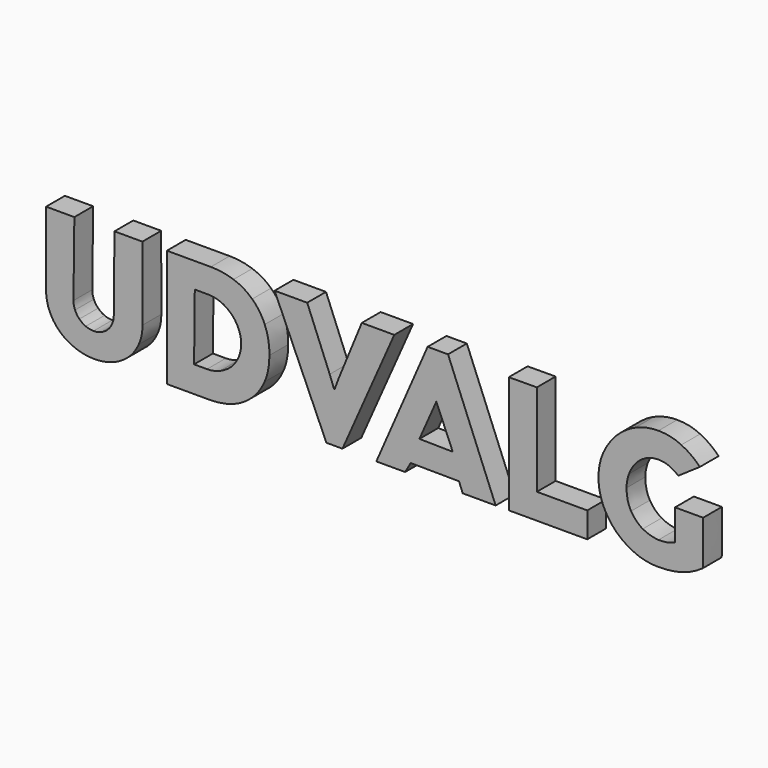
from build123d import *

# Parameters (mm, degrees)
F1_DEPTH = 50


with BuildPart() as f1:
    # F0 (on Front) → F1 (new body)
    with BuildSketch(Plane.XZ):
        with BuildLine():
            add(Edge.make_bspline(
                [(-493.529985, -31.166109), (-493.530207, -45.265155), (-496.251064, -58.251012), (-501.692537, -70.12374)],
                knots=[0, 0, 0, 0, 1, 1, 1, 1], degree=3))
            Line((-493.529985, -31.166109), (-493.901011, 125.035438))
            Line((-493.901011, 125.035438), (-553.265019, 125.035438))
            Line((-553.265019, 125.035438), (-554.749118, -33.021235))
            add(Edge.make_bspline(
                [(-558.088343, -49.717363), (-555.862361, -44.523105), (-554.749285, -38.957728), (-554.749118, -33.021235)],
                knots=[0, 0, 0, 0, 1, 1, 1, 1], degree=3))
            add(Edge.make_bspline(
                [(-567.363972, -63.44529), (-563.406525, -59.487769), (-560.314662, -54.911787), (-558.088343, -49.717363)],
                knots=[0, 0, 0, 0, 1, 1, 1, 1], degree=3))
            add(Edge.make_bspline(
                [(-581.091898, -72.720915), (-575.897694, -70.49482), (-571.321732, -67.402957), (-567.363972, -63.44529)],
                knots=[0, 0, 0, 0, 1, 1, 1, 1], degree=3))
            add(Edge.make_bspline(
                [(-597.788027, -76.060141), (-591.851753, -76.060197), (-586.286379, -74.947121), (-581.091898, -72.720915)],
                knots=[0, 0, 0, 0, 1, 1, 1, 1], degree=3))
            add(Edge.make_bspline(
                [(-614.484152, -72.720915), (-609.289914, -74.947121), (-603.724557, -76.060197), (-597.788027, -76.060141)],
                knots=[0, 0, 0, 0, 1, 1, 1, 1], degree=3))
            add(Edge.make_bspline(
                [(-627.841056, -63.44529), (-623.883552, -67.402957), (-619.431254, -70.49482), (-614.484152, -72.720915)],
                knots=[0, 0, 0, 0, 1, 1, 1, 1], degree=3))
            add(Edge.make_bspline(
                [(-637.116681, -49.717363), (-634.890625, -54.911787), (-631.798742, -59.487769), (-627.841056, -63.44529)],
                knots=[0, 0, 0, 0, 1, 1, 1, 1], degree=3))
            add(Edge.make_bspline(
                [(-640.455906, -33.021235), (-640.455999, -38.957728), (-639.342923, -44.523105), (-637.116681, -49.717363)],
                knots=[0, 0, 0, 0, 1, 1, 1, 1], degree=3))
            Line((-640.455906, -33.021235), (-638.600781, 123.922365))
            Line((-638.600781, 123.922365), (-698.706841, 123.922365))
            Line((-698.706841, 123.922365), (-698.706841, -32.279185))
            add(Edge.make_bspline(
                [(-690.544289, -71.236816), (-695.986021, -59.364088), (-698.706861, -46.378228), (-698.706841, -32.279185)],
                knots=[0, 0, 0, 0, 1, 1, 1, 1], degree=3))
            add(Edge.make_bspline(
                [(-668.653812, -101.289839), (-677.805813, -92.879984), (-685.102632, -82.862309), (-690.544289, -71.236816)],
                knots=[0, 0, 0, 0, 1, 1, 1, 1], degree=3))
            add(Edge.make_bspline(
                [(-636.003605, -120.954181), (-648.37119, -116.25456), (-659.254579, -109.699779), (-668.653812, -101.289839)],
                knots=[0, 0, 0, 0, 1, 1, 1, 1], degree=3))
            add(Edge.make_bspline(
                [(-595.932901, -128.00364), (-610.031964, -128.00364), (-623.388848, -125.65383), (-636.003605, -120.954181)],
                knots=[0, 0, 0, 0, 1, 1, 1, 1], degree=3))
            add(Edge.make_bspline(
                [(-556.23322, -120.954181), (-568.600875, -125.65383), (-581.834098, -128.00364), (-595.932901, -128.00364)],
                knots=[0, 0, 0, 0, 1, 1, 1, 1], degree=3))
            add(Edge.make_bspline(
                [(-523.583013, -100.91883), (-532.735164, -109.328742), (-543.618553, -116.007192), (-556.23322, -120.954181)],
                knots=[0, 0, 0, 0, 1, 1, 1, 1], degree=3))
            add(Edge.make_bspline(
                [(-501.692537, -70.12374), (-506.887108, -81.996592), (-514.18393, -92.261607), (-523.583013, -100.91883)],
                knots=[0, 0, 0, 0, 1, 1, 1, 1], degree=3))
        make_face()
    extrude(amount=F1_DEPTH)


with BuildPart() as f1b:
    # F0 (on Front) → F1, piece 2 (new body)
    with BuildSketch(Plane.XZ):
        with BuildLine():
            add(Edge.make_bspline(
                [(-223.644037, -4e-06), (-223.644291, -19.788125), (-227.107186, -37.473629), (-234.03275, -53.056588)],
                knots=[0, 0, 0, 0, 1, 1, 1, 1], degree=3))
            add(Edge.make_bspline(
                [(-233.661712, 54.540679), (-226.983516, 38.95746), (-223.644291, 20.777249), (-223.644037, -4e-06)],
                knots=[0, 0, 0, 0, 1, 1, 1, 1], degree=3))
            add(Edge.make_bspline(
                [(-260.375513, 93.49831), (-248.99764, 83.109386), (-240.093049, 70.123528), (-233.661712, 54.540679)],
                knots=[0, 0, 0, 0, 1, 1, 1, 1], degree=3))
            add(Edge.make_bspline(
                [(-300.075205, 117.243912), (-284.739673, 112.049321), (-271.506471, 104.134131), (-260.375513, 93.49831)],
                knots=[0, 0, 0, 0, 1, 1, 1, 1], degree=3))
            add(Edge.make_bspline(
                [(-348.308451, 125.035438), (-331.241429, 125.035179), (-315.163708, 122.438003), (-300.075205, 117.243912)],
                knots=[0, 0, 0, 0, 1, 1, 1, 1], degree=3))
            Line((-348.308451, 125.035438), (-441.806782, 125.035438))
            Line((-441.806782, 125.035438), (-441.806782, -124.664415))
            Line((-441.806782, -124.664415), (-350.53462, -124.664415))
            add(Edge.make_bspline(
                [(-301.559299, -116.501871), (-316.89517, -121.943595), (-333.22023, -124.664415), (-350.53462, -124.664415)],
                knots=[0, 0, 0, 0, 1, 1, 1, 1], degree=3))
            add(Edge.make_bspline(
                [(-261.488598, -92.014211), (-272.866895, -102.650291), (-286.223767, -110.812864), (-301.559299, -116.501871)],
                knots=[0, 0, 0, 0, 1, 1, 1, 1], degree=3))
            add(Edge.make_bspline(
                [(-234.03275, -53.056588), (-240.711426, -68.392352), (-249.863356, -81.378215), (-261.488598, -92.014211)],
                knots=[0, 0, 0, 0, 1, 1, 1, 1], degree=3))
        make_face()
        with BuildLine():
            add(Edge.make_bspline(
                [(-283.750089, 1.484095), (-283.750287, 11.130597), (-285.605418, 20.158864), (-289.315483, 28.568925)],
                knots=[0, 0, 0, 0, 1, 1, 1, 1], degree=3))
            add(Edge.make_bspline(
                [(-289.686492, -25.971758), (-285.72906, -17.314631), (-283.750287, -8.162687), (-283.750089, 1.484095)],
                knots=[0, 0, 0, 0, 1, 1, 1, 1], degree=3))
            add(Edge.make_bspline(
                [(-305.640571, -48.604287), (-298.96229, -42.173272), (-293.644292, -34.629108), (-289.686492, -25.971758)],
                knots=[0, 0, 0, 0, 1, 1, 1, 1], degree=3))
            add(Edge.make_bspline(
                [(-329.015147, -63.44529), (-320.110697, -59.735112), (-312.319162, -54.788126), (-305.640571, -48.604287)],
                knots=[0, 0, 0, 0, 1, 1, 1, 1], degree=3))
            add(Edge.make_bspline(
                [(-356.471023, -69.010664), (-346.824498, -69.010721), (-337.672539, -67.155615), (-329.015147, -63.44529)],
                knots=[0, 0, 0, 0, 1, 1, 1, 1], degree=3))
            Line((-356.471023, -69.010664), (-383.926871, -69.010664))
            Line((-383.926871, -69.010664), (-382.442777, 71.607831))
            Line((-382.442777, 71.607831), (-354.244854, 71.607831))
            add(Edge.make_bspline(
                [(-326.789006, 66.042457), (-335.446399, 69.752502), (-344.598329, 71.607628), (-354.244854, 71.607831)],
                knots=[0, 0, 0, 0, 1, 1, 1, 1], degree=3))
            add(Edge.make_bspline(
                [(-304.527515, 50.830428), (-310.711427, 57.261332), (-318.131896, 62.332002), (-326.789006, 66.042457)],
                knots=[0, 0, 0, 0, 1, 1, 1, 1], degree=3))
            add(Edge.make_bspline(
                [(-289.315483, 28.568925), (-293.025887, 37.225996), (-298.096574, 44.646499), (-304.527515, 50.830428)],
                knots=[0, 0, 0, 0, 1, 1, 1, 1], degree=3))
        make_face(mode=Mode.SUBTRACT)
    extrude(amount=F1_DEPTH)


with BuildPart() as f1c:
    # F0 (on Front) → F1, piece 3 (new body)
    with BuildSketch(Plane.XZ):
        Polygon((-86.179265, -18.551258), (-95.454894, 6.307423), (-143.317102, 124.664415), (-212.69881, 124.664415), (-102.504353, -124.293406), (-68.370055, -124.293406), (41.824402, 124.664415), (-27.18627, 124.664415), (-75.790552, 6.307423), (-85.066181, -18.551258), align=None)
    extrude(amount=F1_DEPTH)


with BuildPart() as f1d:
    # F0 (on Front) → F1, piece 4 (new body)
    with BuildSketch(Plane.XZ):
        Polygon((187.34738, -124.664415), (257.471107, -124.664415), (156.181269, 125.406465), (112.771343, 125.406465), (3.68997, -124.664415), (64.909107, -124.664415), (76.781914, -103.887017), (179.555845, -104.629064), align=None)
        Polygon((131.3226, 28.939949), (166.198945, -53.798638), (95.33317, -52.685562), align=None, mode=Mode.SUBTRACT)
    extrude(amount=F1_DEPTH)


with BuildPart() as f1e:
    # F0 (on Front) → F1, piece 5 (new body)
    with BuildSketch(Plane.XZ):
        Polygon((345.096789, -70.494766), (345.096789, 125.035438), (285.361746, 124.664415), (285.361746, -124.664415), (452.32303, -124.664415), (452.32303, -70.494766), align=None)
    extrude(amount=F1_DEPTH)


with BuildPart() as f1f:
    # F0 (on Front) → F1, piece 6 (new body)
    with BuildSketch(Plane.XZ):
        with BuildLine():
            add(Edge.make_bspline(
                [(698.70684, -4.081279), (698.706643, -67.155615), (698.582916, -98.692717), (698.335859, -98.692661)],
                knots=[0, 0, 0, 0, 1, 1, 1, 1], degree=3))
            Line((698.70684, -4.081279), (638.971826, -4.081279))
            Line((638.971826, -4.081279), (638.971826, -69.752717))
            add(Edge.make_bspline(
                [(603.724443, -76.431167), (616.091788, -76.925928), (627.840897, -74.699779), (638.971826, -69.752717)],
                knots=[0, 0, 0, 0, 1, 1, 1, 1], degree=3))
            add(Edge.make_bspline(
                [(570.332192, -66.784515), (580.473424, -72.473627), (591.604156, -75.689171), (603.724443, -76.431167)],
                knots=[0, 0, 0, 0, 1, 1, 1, 1], degree=3))
            add(Edge.make_bspline(
                [(545.473494, -41.554811), (552.151888, -52.438293), (560.438102, -60.848188), (570.332192, -66.784515)],
                knots=[0, 0, 0, 0, 1, 1, 1, 1], degree=3))
            add(Edge.make_bspline(
                [(535.826885, -1.11308), (535.826772, -17.19095), (539.042327, -30.671515), (545.473494, -41.554811)],
                knots=[0, 0, 0, 0, 1, 1, 1, 1], degree=3))
            add(Edge.make_bspline(
                [(541.021213, 26.713799), (537.558234, 17.809051), (535.826772, 8.533422), (535.826885, -1.11308)],
                knots=[0, 0, 0, 0, 1, 1, 1, 1], degree=3))
            add(Edge.make_bspline(
                [(555.12016, 50.830428), (549.183672, 43.904449), (544.484023, 35.865577), (541.021213, 26.713799)],
                knots=[0, 0, 0, 0, 1, 1, 1, 1], degree=3))
            add(Edge.make_bspline(
                [(576.268596, 67.526556), (568.105939, 63.321414), (561.056451, 57.756037), (555.12016, 50.830428)],
                knots=[0, 0, 0, 0, 1, 1, 1, 1], degree=3))
            add(Edge.make_bspline(
                [(603.353406, 73.833983), (593.706627, 73.833777), (584.678366, 71.731309), (576.268596, 67.526556)],
                knots=[0, 0, 0, 0, 1, 1, 1, 1], degree=3))
            add(Edge.make_bspline(
                [(626.356972, 69.381682), (619.678381, 72.349677), (612.010516, 73.833777), (603.353406, 73.833983)],
                knots=[0, 0, 0, 0, 1, 1, 1, 1], degree=3))
            add(Edge.make_bspline(
                [(646.021285, 57.508878), (639.837373, 62.455683), (633.282621, 66.413277), (626.356972, 69.381682)],
                knots=[0, 0, 0, 0, 1, 1, 1, 1], degree=3))
            Line((646.021285, 57.508878), (691.657409, 88.674983))
            add(Edge.make_bspline(
                [(652.328726, 117.243912), (667.169523, 110.317877), (680.279056, 100.794906), (691.657409, 88.674983)],
                knots=[0, 0, 0, 0, 1, 1, 1, 1], degree=3))
            add(Edge.make_bspline(
                [(603.724443, 128.00364), (621.533484, 128.00338), (637.734902, 124.41681), (652.328726, 117.243912)],
                knots=[0, 0, 0, 0, 1, 1, 1, 1], degree=3))
            add(Edge.make_bspline(
                [(554.378114, 117.614938), (569.96107, 124.540474), (586.4098, 128.00338), (603.724443, 128.00364)],
                knots=[0, 0, 0, 0, 1, 1, 1, 1], degree=3))
            add(Edge.make_bspline(
                [(513.936375, 89.417035), (525.561785, 101.289594), (539.042327, 110.688883), (554.378114, 117.614938)],
                knots=[0, 0, 0, 0, 1, 1, 1, 1], degree=3))
            add(Edge.make_bspline(
                [(486.109489, 48.233252), (493.035279, 63.816102), (502.310908, 77.544028), (513.936375, 89.417035)],
                knots=[0, 0, 0, 0, 1, 1, 1, 1], degree=3))
            add(Edge.make_bspline(
                [(476.091814, -1.11308), (476.091814, 16.201267), (479.431039, 32.650033), (486.109489, 48.233252)],
                knots=[0, 0, 0, 0, 1, 1, 1, 1], degree=3))
            add(Edge.make_bspline(
                [(486.109489, -49.717363), (479.431039, -34.381766), (476.091814, -18.180345), (476.091814, -1.11308)],
                knots=[0, 0, 0, 0, 1, 1, 1, 1], degree=3))
            add(Edge.make_bspline(
                [(513.565365, -90.159108), (501.93987, -78.533691), (492.78794, -65.053127), (486.109489, -49.717363)],
                knots=[0, 0, 0, 0, 1, 1, 1, 1], degree=3))
            add(Edge.make_bspline(
                [(554.007076, -117.243918), (538.671318, -110.565496), (525.190748, -101.537235), (513.565365, -90.159108)],
                knots=[0, 0, 0, 0, 1, 1, 1, 1], degree=3))
            add(Edge.make_bspline(
                [(603.353406, -127.261593), (586.03879, -127.261593), (569.590032, -123.922396), (554.007076, -117.243918)],
                knots=[0, 0, 0, 0, 1, 1, 1, 1], degree=3))
            add(Edge.make_bspline(
                [(655.296914, -120.212134), (640.208382, -124.911783), (622.893908, -127.261593), (603.353406, -127.261593)],
                knots=[0, 0, 0, 0, 1, 1, 1, 1], degree=3))
            add(Edge.make_bspline(
                [(698.335859, -98.692661), (684.978705, -108.339327), (670.632418, -115.512485), (655.296914, -120.212134)],
                knots=[0, 0, 0, 0, 1, 1, 1, 1], degree=3))
        make_face()
    extrude(amount=F1_DEPTH)


solid = Compound([f1.part, f1b.part, f1c.part, f1d.part, f1e.part, f1f.part])
